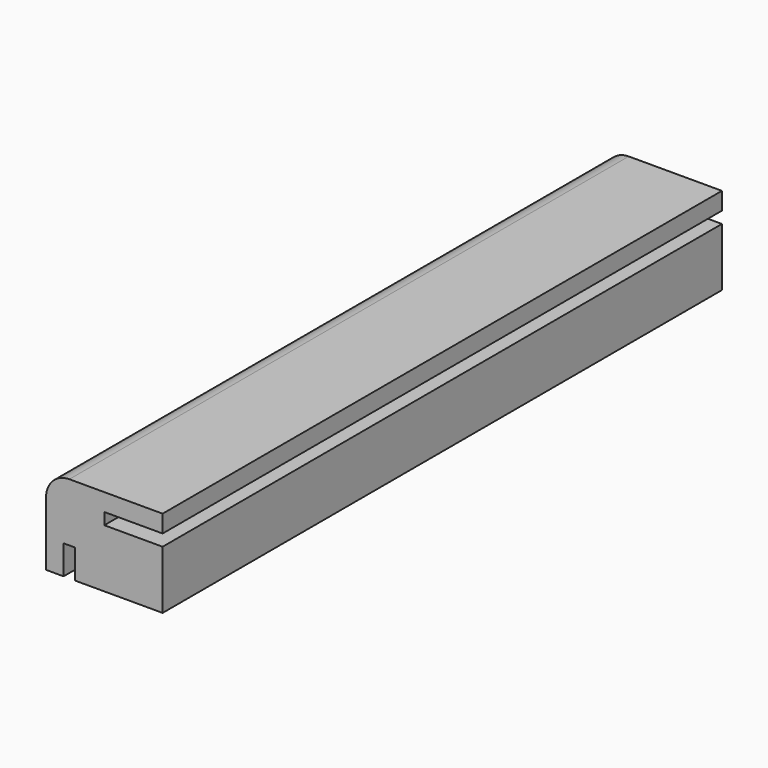
from build123d import *

# Parameters (mm, degrees)
F0_W     = 25.4
F0_H     = 152.4
F1_DEPTH = 19.05
F2_W     = 12.7
F2_H     = 2.54
F2_W_2   = 2.54
F2_H_2   = 6.35
F3_DEPTH = 177.8
F4_R     = 5.08


with BuildPart() as f1:
    # F0 (on Top) → F1 (new body)
    with BuildSketch(Plane.XY):
        Rectangle(F0_W, F0_H)
    extrude(amount=F1_DEPTH)

    # F2 (on face) → F3 (cut)
    with BuildSketch(Plane.XZ.offset(76.2)):
        with Locations((6.35, 13.97)):
            Rectangle(F2_W, F2_H)
        with Locations((-7.62, 3.175)):
            Rectangle(F2_W_2, F2_H_2)
    extrude(amount=-F3_DEPTH, mode=Mode.SUBTRACT)

    # F4
    f4_edges = [f1.edges().sort_by_distance(p)[0] for p in [
        (-12.7, 0, 19.05),
    ]]
    fillet(f4_edges, radius=F4_R)


solid = f1.part
